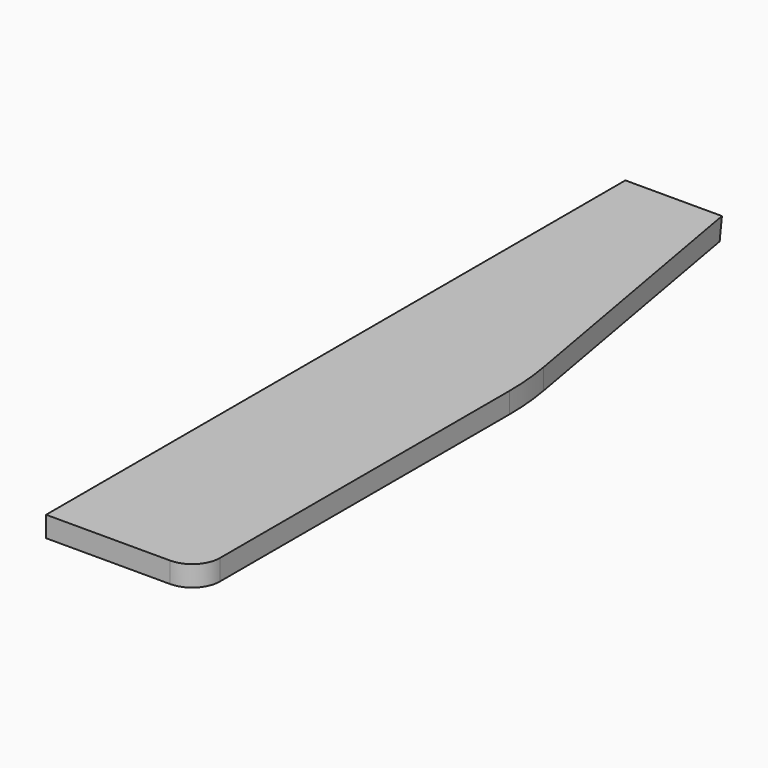
from build123d import *

# Parameters (mm, degrees)
F1_DEPTH = 19.05
F2_R     = 254
F3_R     = 25.4
F5_DEPTH = 139.701


with BuildPart() as f1:
    # F0 (on Top) → F1 (new body)
    with BuildSketch(Plane.XY):
        Polygon((0, 666.75), (0, 0), (139.7, 0), (139.7, 381), (88.9, 666.75), align=None)
    extrude(amount=F1_DEPTH)

    # F2
    f2_edges = [f1.edges().sort_by_distance(p)[0] for p in [
        (139.7, 381, 9.525),
    ]]
    fillet(f2_edges, radius=F2_R)

    # F3
    f3_edges = [f1.edges().sort_by_distance(p)[0] for p in [
        (139.7, 0, 9.525),
    ]]
    fillet(f3_edges, radius=F3_R)

    # F4 (on face) → F5 (cut, through all)
    with BuildSketch(Plane(origin=(0, 0, 0), x_dir=(0, -1, 0), z_dir=(-1, 0, 0))):
        Polygon((-663.390971, 0), (-666.75, 19.05), (-666.75, 0), align=None)
    extrude(amount=-F5_DEPTH, mode=Mode.SUBTRACT)


solid = f1.part
